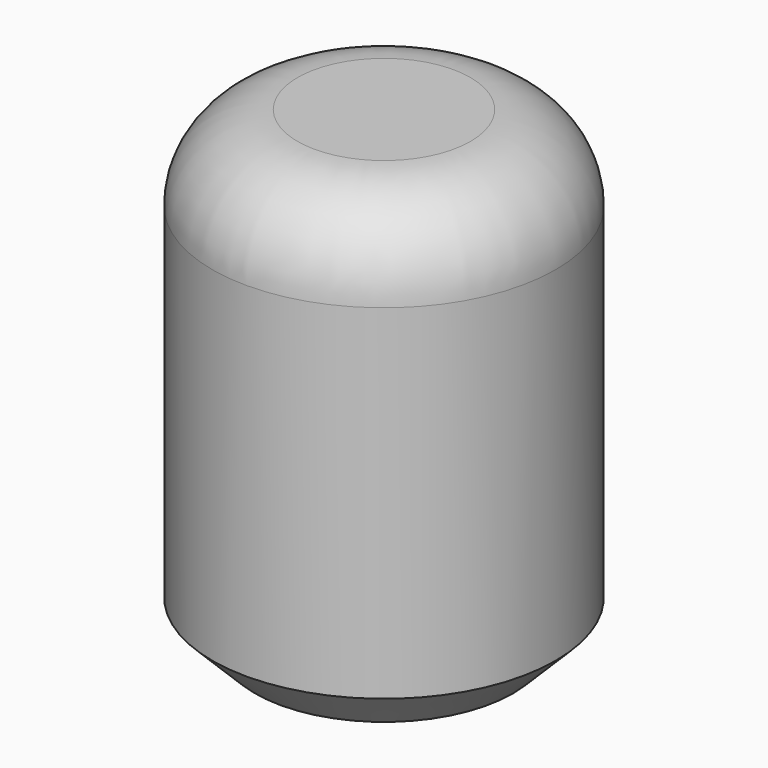
from build123d import *

# Parameters (mm, degrees)
F0_R     = 20.1519646926
F1_DEPTH = 25.4
F2_DEPTH = 30
F3_R     = 10
F4_SIZE  = 5


with BuildPart() as f1:
    # F0 (on Top) → F1 (new body)
    with BuildSketch(Plane.XY):
        Circle(F0_R)
    extrude(amount=F1_DEPTH)

    # F2 (add): a face of the model
    f2_faces = [f1.faces().sort_by_distance(p)[0] for p in [
        (0, 0, 25.4),
    ]]
    extrude(f2_faces, amount=F2_DEPTH)

    # F3
    f3_edges = [f1.edges().sort_by_distance(p)[0] for p in [
        (-20.151965, 0, 55.4),
    ]]
    fillet(f3_edges, radius=F3_R)

    # F4
    f4_edges = [f1.edges().sort_by_distance(p)[0] for p in [
        (-20.151965, 0, 0),
    ]]
    chamfer(f4_edges, length=F4_SIZE)


solid = f1.part
